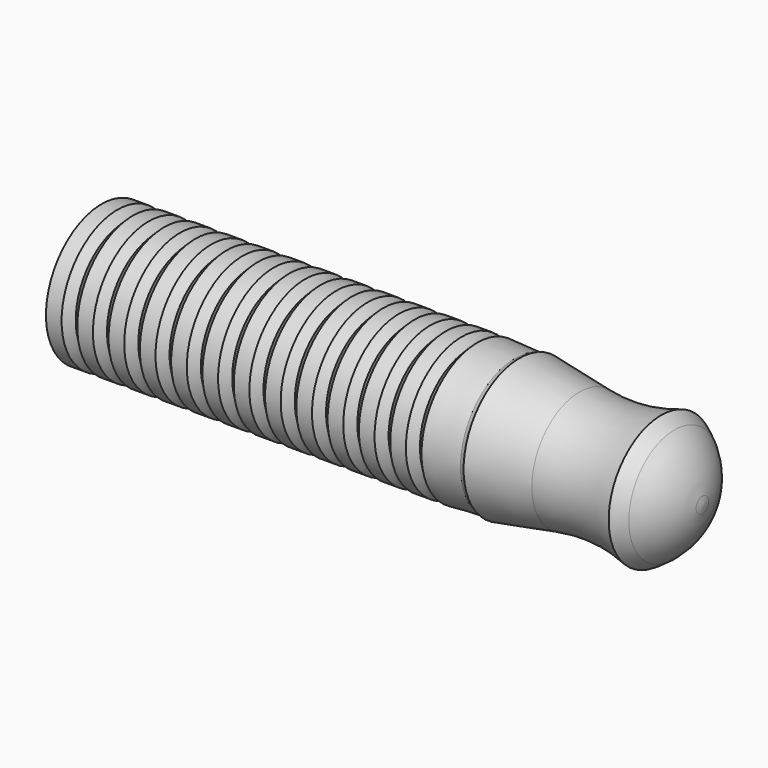
from build123d import *


with BuildPart() as f1:
    # F0 (on Top) → F1 (revolve)
    with BuildSketch(Plane.XY):
        Polygon((68.077475, 22.601893), (68.077475, 15.875), (187.976122, 15.875), (187.976122, 20.58054), (187.457475, 20.061893), (184.917475, 22.601893), (179.837475, 22.601893), (177.297475, 20.061893), (174.757475, 22.601893), (169.677475, 22.601893), (167.137475, 20.061893), (164.597475, 22.601893), (159.517475, 22.601893), (156.977475, 20.061893), (154.437475, 22.601893), (149.357475, 22.601893), (146.817475, 20.061893), (144.277475, 22.601893), (139.197475, 22.601893), (136.657475, 20.061893), (134.117475, 22.601893), (129.037475, 22.601893), (126.497475, 20.061893), (123.957475, 22.601893), (118.877475, 22.601893), (116.337475, 20.061893), (113.797475, 22.601893), (108.717475, 22.601893), (106.177475, 20.061893), (103.637475, 22.601893), (98.557475, 22.601893), (96.017475, 20.061893), (93.477475, 22.601893), (88.397475, 22.601893), (85.857475, 20.061893), (83.317475, 22.601893), (78.237475, 22.601893), (75.697475, 20.061893), (73.157475, 22.601893), align=None)
        with BuildLine():
            Line((187.976122, 20.58054), (187.976122, 15.875))
            Line((187.976122, 15.875), (254, 15.875))
            Line((254, 15.875), (254, 18.475244))
            ThreePointArc((254, 18.475244), (251.94463, 20.004972), (249.747694, 21.323336))
            ThreePointArc((249.747694, 21.323336), (236.586927, 18.688808), (223.179117, 19.302912))
            Line((223.179117, 19.302912), (203.661054, 22.601893))
            Line((203.661054, 22.601893), (202.15936, 21.992272))
            Line((202.15936, 21.992272), (189.997475, 22.601893))
            Line((189.997475, 22.601893), (187.976122, 20.58054))
        make_face()
        with BuildLine():
            Line((254, 15.875), (254, 0))
            Line((254, 0), (263.476824, 0))
            Line((263.476824, 0), (263.082504, 2.533392))
            ThreePointArc((263.082504, 2.533392), (260.005937, 11.338789), (254, 18.475244))
            Line((254, 18.475244), (254, 15.875))
        make_face()
    revolve(axis=Axis((127, 0, 0), (1, 0, 0)))


solid = f1.part
